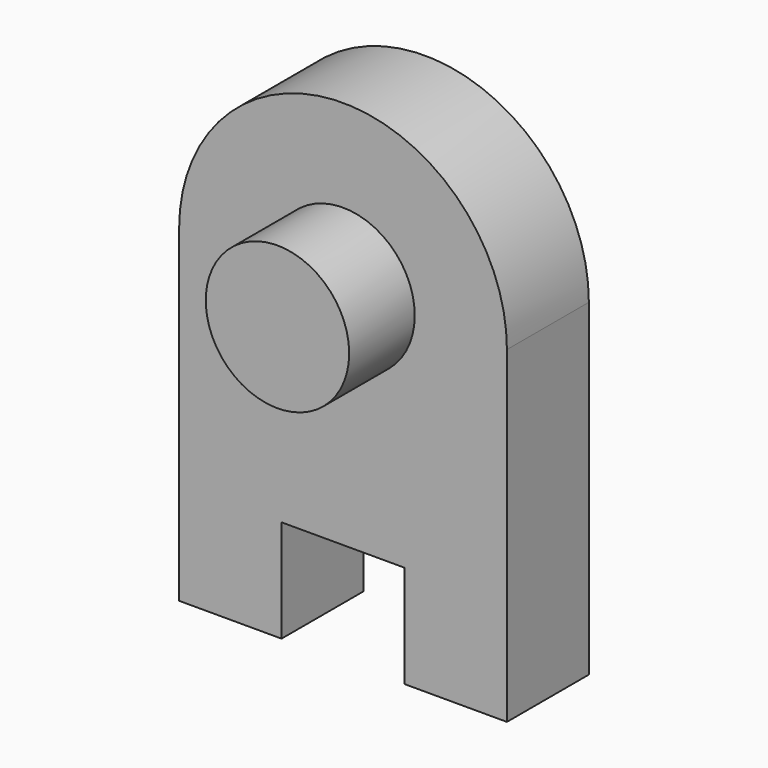
from build123d import *

# Parameters (mm, degrees)
F1_DEPTH = 25
F2_R     = 17.5
F3_DEPTH = 20


with BuildPart() as f1:
    # F0 (on Front) → F1 (new body)
    with BuildSketch(Plane.XZ):
        with BuildLine():
            Line((15, -40), (40, -40))
            Line((40, -40), (40, 40))
            ThreePointArc((40, 40), (0, 80), (-40, 40))
            Line((-40, 40), (-40, -40))
            Line((-40, -40), (-15, -40))
            Line((-15, -40), (-15, -15))
            Line((-15, -15), (15, -15))
            Line((15, -15), (15, -40))
        make_face()
    extrude(amount=F1_DEPTH)

    # F2 (on face) → F3 (join)
    with BuildSketch(Plane.XZ.offset(25)):
        with Locations((0, 40)):
            Circle(F2_R)
    extrude(amount=F3_DEPTH)


solid = f1.part
